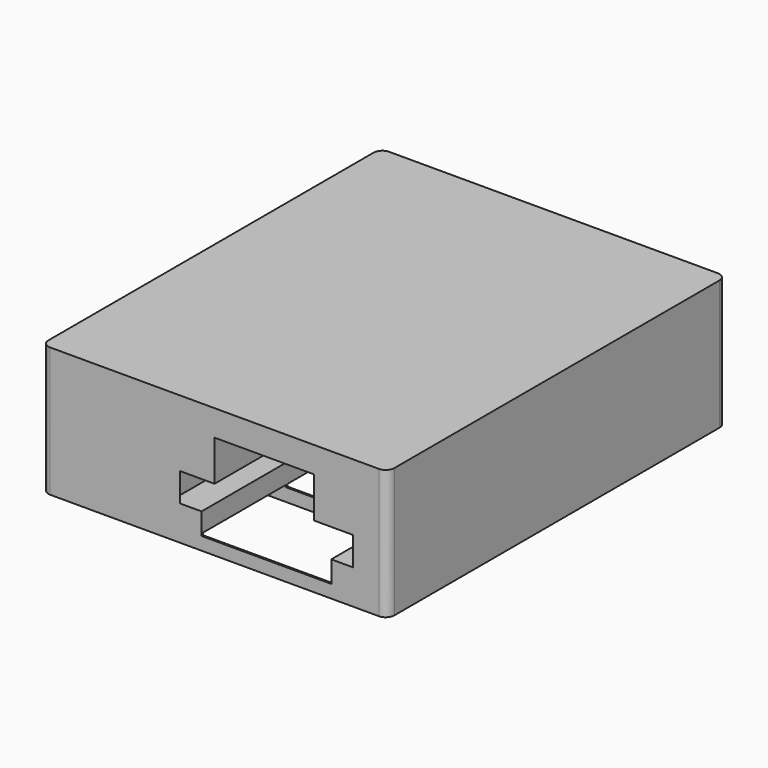
from build123d import *

# Parameters (mm, degrees)
BOX004_W                  = 11.5
BOX004_H                  = 49
BOX004_DEPTH              = 8
BOX003_W                  = 22
BOX003_H                  = 49
BOX003_DEPTH              = 3.3
FILLET001_R               = 1
BOX005_W                  = 15
BOX005_H                  = 49
BOX005_DEPTH              = 3
BOX001_W                  = 30.5
BOX001_H                  = 12
BOX001_DEPTH              = 2.25
CYLINDER_R                = 2.7
CYLINDER_DEPTH            = 10
BOX002_W                  = 15
BOX002_H                  = 12
BOX002_DEPTH              = 2.25
FILLET_R                  = 2
FUSION001_PLACEMENT_ANGLE = 180
CYLINDER001_R             = 2.7
CYLINDER001_DEPTH         = 10
BOX_W                     = 120
BOX_H                     = 12
BOX_DEPTH                 = 80
FILLET002_R               = 0.5
ARRAY_Y_COUNT             = 4
ARRAY_Y_PITCH             = 12.2
BOX006_W                  = 40
BOX006_H                  = 49
BOX006_DEPTH              = 15
FILLET003_R               = 1


with BuildPart() as box004:
    # Box004 → Box004 (new body)
    with BuildSketch(Plane(origin=(-38, -0.2, 84.5), x_dir=(1, 0, 0), z_dir=(0, 0, 1))):
        with Locations((5.75, 24.5)):
            Rectangle(BOX004_W, BOX004_H)
    extrude(amount=BOX004_DEPTH)


with BuildPart() as fillet001:
    # Box003 → Box003 (new body)
    with BuildSketch(Plane(origin=(-43, -0.2, 84.5), x_dir=(1, 0, 0), z_dir=(0, 0, 1))):
        with Locations((11, 24.5)):
            Rectangle(BOX003_W, BOX003_H)
    extrude(amount=BOX003_DEPTH)

    # Fillet001
    fillet001_edges = [fillet001.edges().sort_by_distance(p)[0] for p in [
        (-43, -0.2, 86.15),
        (-43, 48.8, 86.15),
        (-21, -0.2, 86.15),
        (-21, 48.8, 86.15),
    ]]
    fillet(fillet001_edges, radius=FILLET001_R)


with BuildPart() as fusion002005:
    # Box005 → Box005 (new body)
    with BuildSketch(Plane(origin=(-39.5, -0.2, 82), x_dir=(1, 0, 0), z_dir=(0, 0, 1))):
        with Locations((7.5, 24.5)):
            Rectangle(BOX005_W, BOX005_H)
    extrude(amount=BOX005_DEPTH)

    # Fusion002005: union Box004, Fillet001
    add(box004.part)
    add(fillet001.part)


with BuildPart() as obj1:
    # Box001 → Box001 (new body)
    with BuildSketch(Plane.XY):
        with Locations((15.25, 6)):
            Rectangle(BOX001_W, BOX001_H)
    extrude(amount=BOX001_DEPTH)


with BuildPart() as cylinder:
    # Cylinder → Cylinder (new body)
    with BuildSketch(Plane(origin=(7.5, 6, 4.5), x_dir=(1, 0, 0), z_dir=(0, 0, 1))):
        Circle(CYLINDER_R)
    extrude(amount=CYLINDER_DEPTH)


with BuildPart() as fillet_body:
    # Box002 → Box002 (new body)
    with BuildSketch(Plane.XY.offset(2.25)):
        with Locations((7.5, 6)):
            Rectangle(BOX002_W, BOX002_H)
    extrude(amount=BOX002_DEPTH)

    # Fillet
    fillet_edges = [fillet_body.edges().sort_by_distance(p)[0] for p in [
        (0, 6, 4.5),
        (15, 6, 4.5),
    ]]
    fillet(fillet_edges, radius=FILLET_R)


with BuildPart() as fusion001:
    # Fusion001 base: copy of Fillet body
    add(fillet_body.part)

    # Fusion001: union obj1, Cylinder
    add(obj1.part)
    add(cylinder.part)


with BuildPart() as fusion001_1:
    # Fusion001 placement: moved
    add(fusion001.part.moved(Location((-24.5, 12, 80))).rotate(Axis((-24.5, 12, 80), (0, 0, 1)), FUSION001_PLACEMENT_ANGLE))


with BuildPart() as cylinder001:
    # Cylinder001 → Cylinder001 (new body)
    with BuildSketch(Plane(origin=(7.5, 6, 4.5), x_dir=(1, 0, 0), z_dir=(0, 0, 1))):
        Circle(CYLINDER001_R)
    extrude(amount=CYLINDER001_DEPTH)


with BuildPart() as fillet002:
    # Box → Box (new body)
    with BuildSketch(Plane(origin=(-84.5, 0, -80), x_dir=(1, 0, 0), z_dir=(0, 0, 1))):
        with Locations((60, 6)):
            Rectangle(BOX_W, BOX_H)
    extrude(amount=BOX_DEPTH)

    # Fillet002
    fillet002_edges = [fillet002.edges().sort_by_distance(p)[0] for p in [
        (-84.5, 0, -40),
        (-84.5, 6, 0),
        (-84.5, 12, -40),
        (-84.5, 6, -80),
        (35.5, 0, -40),
        (35.5, 6, 0),
        (35.5, 12, -40),
        (35.5, 6, -80),
        (-24.5, 0, -80),
        (-24.5, 0, 0),
        (-24.5, 12, -80),
        (-24.5, 12, 0),
    ]]
    fillet(fillet002_edges, radius=FILLET002_R)


with BuildPart() as fusion002006:
    # Fusion base: copy of Fillet body
    add(fillet_body.part)

    # Fusion: union obj1, Cylinder, Fillet002
    add(obj1.part)
    add(cylinder.part)
    add(fillet002.part)


with BuildPart() as fusion002006_1:
    # Fusion placement: moved
    add(fusion002006.part.moved(Location((24.5, 0, 80))))

    # Fusion002: union Fusion001, Cylinder001
    add(fusion001_1.part)
    add(cylinder001.part)

    # Array Y: Fusion002006 ×4


with BuildPart() as fusion002006_2:
    add(fusion002006_1.part)
    with Locations(*[(0, i * ARRAY_Y_PITCH, 0) for i in range(1, ARRAY_Y_COUNT)]):
        add(fusion002006_1.part)

    # Fusion002006: union Fusion002005
    add(fusion002005.part)


with BuildPart() as cut:
    # Box006 → Box006 (new body)
    with BuildSketch(Plane(origin=(-58, -0.2, 80.5), x_dir=(1, 0, 0), z_dir=(0, 0, 1))):
        with Locations((20, 24.5)):
            Rectangle(BOX006_W, BOX006_H)
    extrude(amount=BOX006_DEPTH)

    # Fillet003
    fillet003_edges = [cut.edges().sort_by_distance(p)[0] for p in [
        (-58, -0.2, 88),
        (-58, 48.8, 88),
        (-18, -0.2, 88),
        (-18, 48.8, 88),
    ]]
    fillet(fillet003_edges, radius=FILLET003_R)

    # Cut: cut Fusion002006
    add(fusion002006_2.part, mode=Mode.SUBTRACT)


solid = cut.part
